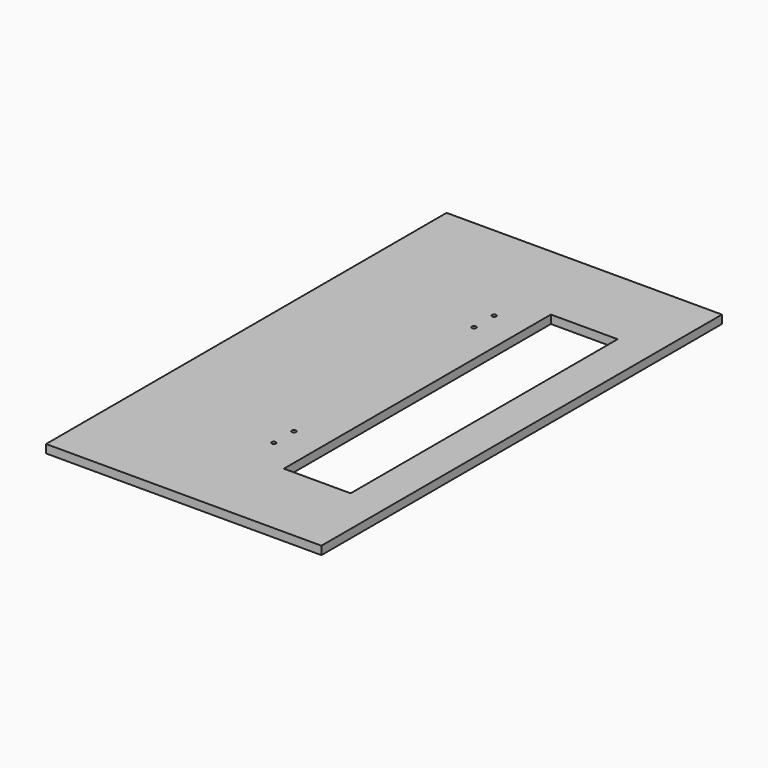
from build123d import *

# Parameters (mm, degrees)
F0_W     = 209.55
F0_H     = 381
F1_DEPTH = 6.35
F2_W     = 50.8
F2_H     = 254
F3_DEPTH = 25.4
F4_D     = 3.175
F4_DEPTH = 19.05


with BuildPart() as f1:
    # F0 (on Top) → F1 (new body)
    with BuildSketch(Plane.XY):
        Rectangle(F0_W, F0_H)
    extrude(amount=F1_DEPTH)

    # F2 (on face) → F3 (cut)
    with BuildSketch(Plane.XY.offset(6.35)):
        with Locations((50.8, 0)):
            Rectangle(F2_W, F2_H)
    extrude(amount=-F3_DEPTH, mode=Mode.SUBTRACT)

    # F4
    with Locations(Plane.XY.offset(6.35)):
        with Locations((0, -104.775), (0, -85.725), (0, 85.725), (0, 104.775)):
            Hole(F4_D / 2, depth=F4_DEPTH)


solid = f1.part
